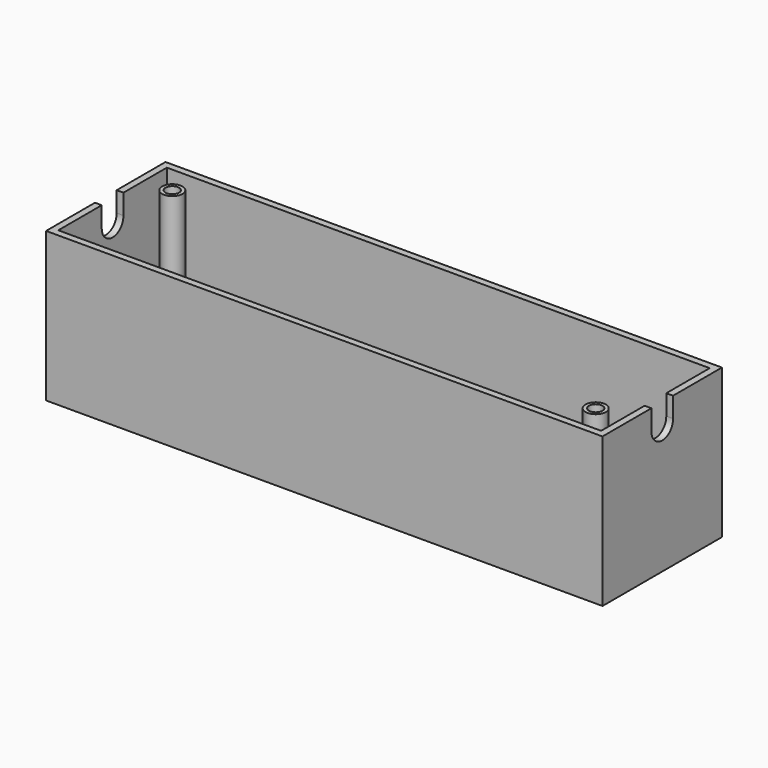
from build123d import *

# Parameters (mm, degrees)
F0_W     = 80
F0_H     = 20
F0_R     = 1.5
F1_DEPTH = 1
F0_W_2   = 82
F0_H_2   = 22
F2_DEPTH = 22
F3_R     = 1
F4_DEPTH = 5
F6_DEPTH = 100


with BuildPart() as f1:
    # F0 (on Top) → F1 (new body)
    with BuildSketch(Plane.XY):
        Rectangle(F0_W, F0_H)
        with Locations((36, -6)):
            Circle(F0_R, mode=Mode.SUBTRACT)
        with Locations((-36, 6)):
            Circle(F0_R, mode=Mode.SUBTRACT)
    extrude(amount=F1_DEPTH)

    # F0 (on Top) → F2 (join)
    with BuildSketch(Plane.XY):
        Rectangle(F0_W_2, F0_H_2)
        Rectangle(F0_W, F0_H, mode=Mode.SUBTRACT)
        with Locations((-36, 6)):
            Circle(F0_R)
        with Locations((36, -6)):
            Circle(F0_R)
    extrude(amount=F2_DEPTH)

    # F3 (on face) → F4 (cut)
    with BuildSketch(Plane.XY.offset(22)):
        with Locations((36, -6)):
            Circle(F3_R)
        with Locations((-36, 6)):
            Circle(F3_R)
    extrude(amount=-F4_DEPTH, mode=Mode.SUBTRACT)

    # F5 (on face) → F6 (cut)
    with BuildSketch(Plane.YZ.offset(41)):
        with BuildLine():
            Line((-1.998466, 22), (-1.998466, 19.07831))
            ThreePointArc((-1.998466, 19.07831), (-0.023735, 17.000141), (1.999762, 19.030858))
            Line((1.999762, 19.030858), (1.999762, 22))
            Line((1.999762, 22), (-1.998466, 22))
        make_face()
    extrude(amount=-F6_DEPTH, mode=Mode.SUBTRACT)


solid = f1.part
